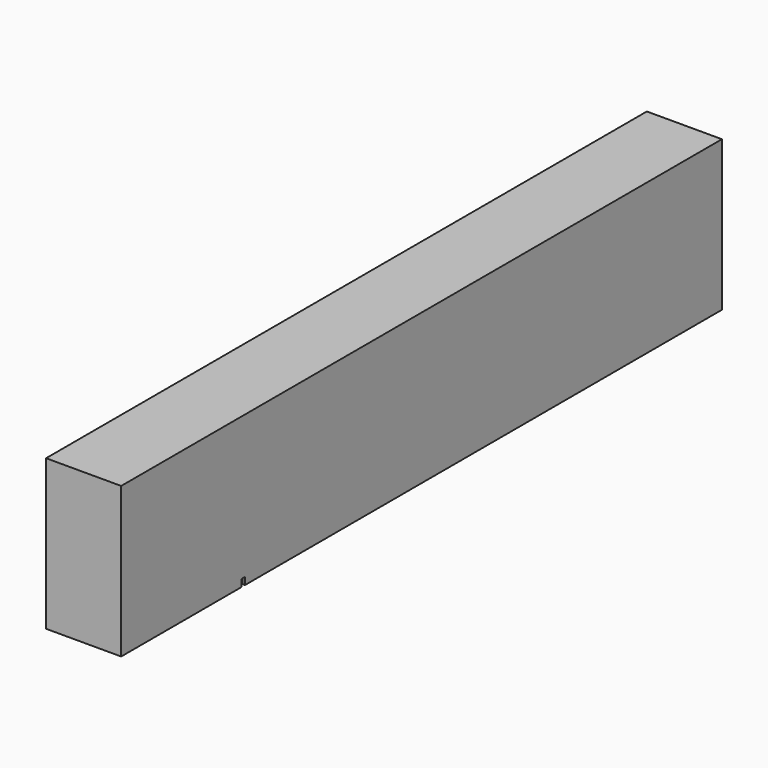
from build123d import *

# Parameters (mm, degrees)
F0_W     = 625
F0_H     = 1250
F1_DEPTH = 5000
F2_W     = 19
F2_H     = 60
F3_DEPTH = 38.2
F4_DEPTH = 1250


with BuildPart() as f1:
    # F0 (on Front) → F1 (new body)
    with BuildSketch(Plane.XZ):
        with Locations((-312.5, 625)):
            Rectangle(F0_W, F0_H)
    extrude(amount=-F1_DEPTH)

    # F2 (on Front) → F3 (cut)
    with BuildSketch(Plane.XZ):
        with Locations((-9.5, 30)):
            Rectangle(F2_W, F2_H)
    extrude(amount=-F3_DEPTH, mode=Mode.SUBTRACT)

    # F0 (on Front) → F4 (join)
    with BuildSketch(Plane.XZ):
        with Locations((-312.5, 625)):
            Rectangle(F0_W, F0_H)
    extrude(amount=F4_DEPTH)


solid = f1.part
